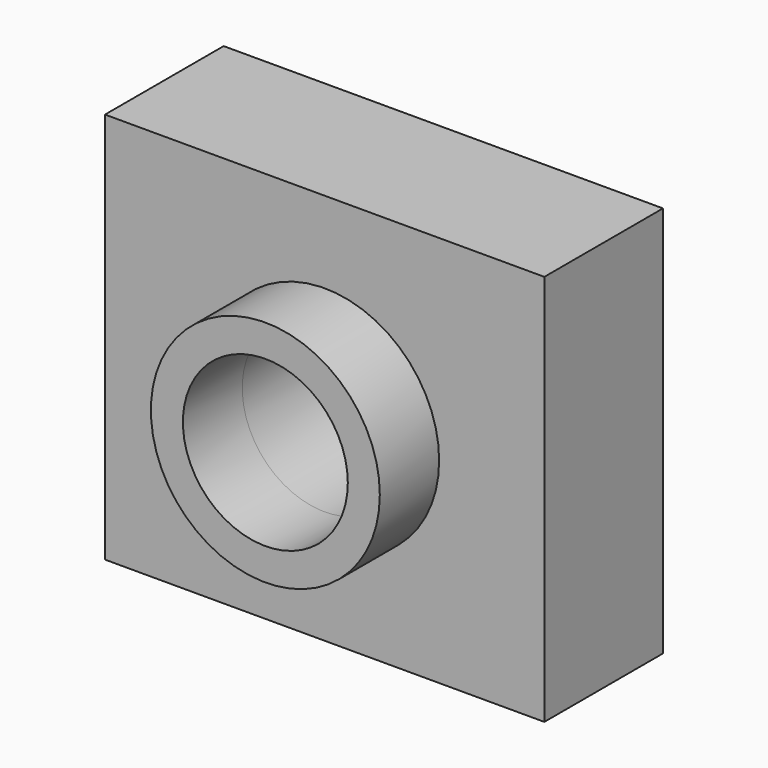
from build123d import *

# Parameters (mm, degrees)
F0_W     = 75.245142
F0_H     = 67.105166
F1_DEPTH = 25.4
F2_R     = 14.122943
F3_DEPTH = 25.401
F2_R_2   = 19.605115
F4_DEPTH = 12.7


with BuildPart() as f1:
    # F0 (on Front) → F1 (new body)
    with BuildSketch(Plane.XZ):
        Rectangle(F0_W, F0_H)
    extrude(amount=F1_DEPTH)

    # F2 (on face) → F3 (cut, through all)
    with BuildSketch(Plane.XZ.offset(25.4)):
        Circle(F2_R)
    extrude(amount=-F3_DEPTH, mode=Mode.SUBTRACT)

    # F2 (on face) → F4 (join)
    with BuildSketch(Plane.XZ.offset(25.4)):
        Circle(F2_R_2)
        Circle(F2_R, mode=Mode.SUBTRACT)
    extrude(amount=F4_DEPTH)


solid = f1.part
